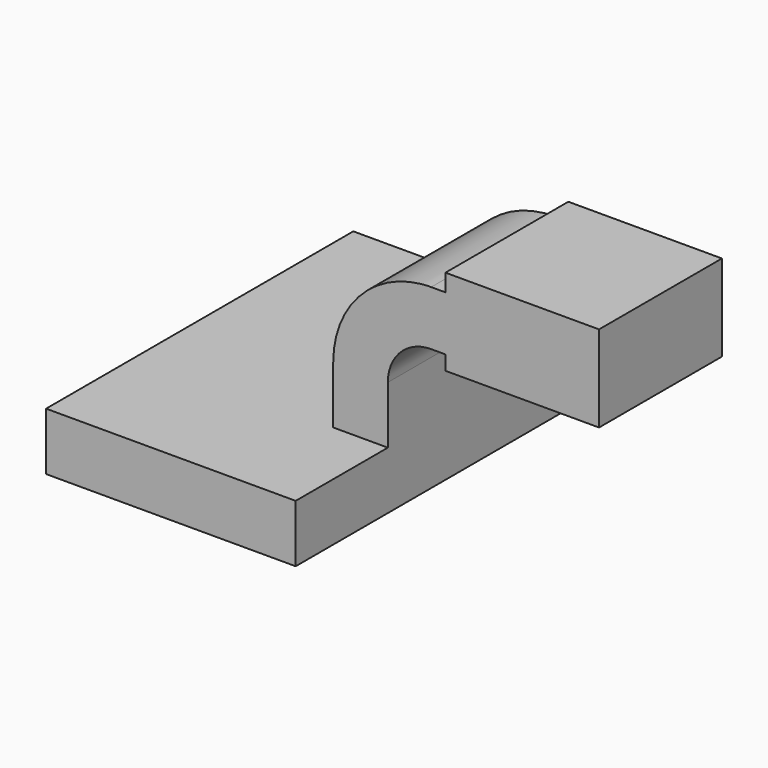
from build123d import *

# Parameters (mm, degrees)
F1_DEPTH = 63.5
F0_W     = 25.4
F0_H     = 5.7404
F0_H_2   = 4.7752
F0_H_3   = 18.0594
F2_DEPTH = 25.4


with BuildPart() as f1:
    # F0 (on Front) → F1 (new body, symmetric)
    with BuildSketch(Plane.XZ):
        Polygon((41.275, -9.525), (41.275, 9.525), (23.2156, 9.525), (-41.275, 9.525), (-41.275, -9.525), align=None)
    extrude(amount=F1_DEPTH, both=True)

    # F0 (on Front) → F2 (join, symmetric)
    with BuildSketch(Plane.XZ):
        with BuildLine():
            ThreePointArc((55.6139286177, 60.9346), (54.0131360894, 60.8950284737), (52.4162539977, 60.7764105607))
            add(Edge.make_bspline(
                [(52.4162539977, 60.7764105607), (53.4865602122, 60.8406291902), (54.5527361341, 60.8934228088), (55.6139286177, 60.9346)],
                knots=[107.0385349391, 107.0385349391, 107.0385349391, 107.0385349391, 109.6832323595, 109.6832323595, 109.6832323595, 109.6832323595], degree=3))
        make_face()
        Polygon((41.275, -9.525), (41.275, 9.525), (23.2156, 9.525), (-41.275, 9.525), (-41.275, -9.525), align=None)
        with Locations((73.025, 63.8048)):
            Rectangle(F0_W, F0_H)
        with Locations((73.025, 40.4876)):
            Rectangle(F0_W, F0_H_2)
        Polygon((85.725, 60.9346), (85.725, 42.8752), (85.725, 38.1), (111.125, 38.1), (111.125, 66.675), (85.725, 66.675), align=None)
        with Locations((73.025, 51.9049)):
            Rectangle(F0_W, F0_H_3)
        with BuildLine():
            Line((23.2156, 9.525), (41.275, 9.525))
            Line((41.275, 9.525), (41.275, 28.5362713823))
            ThreePointArc((41.275, 28.5362713823), (45.4747749572, 38.6754250428), (55.6139286177, 42.8752))
            Line((55.6139286177, 42.8752), (60.325, 42.8752))
            Line((60.325, 42.8752), (60.325, 60.9346))
            Line((60.325, 60.9346), (55.6139286177, 60.9346))
            add(Edge.make_bspline(
                [(52.4162539977, 60.7764105607), (53.4865602122, 60.8406291902), (54.5527361341, 60.8934228088), (55.6139286177, 60.9346)],
                knots=[107.0385349391, 107.0385349391, 107.0385349391, 107.0385349391, 109.6832323595, 109.6832323595, 109.6832323595, 109.6832323595], degree=3))
            ThreePointArc((52.4162539977, 60.7764105607), (31.6009007956, 50.2854367004), (23.2156, 28.5362713823))
            Line((23.2156, 28.5362713823), (23.2156, 9.525))
        make_face()
    extrude(amount=F2_DEPTH, both=True)


solid = f1.part
